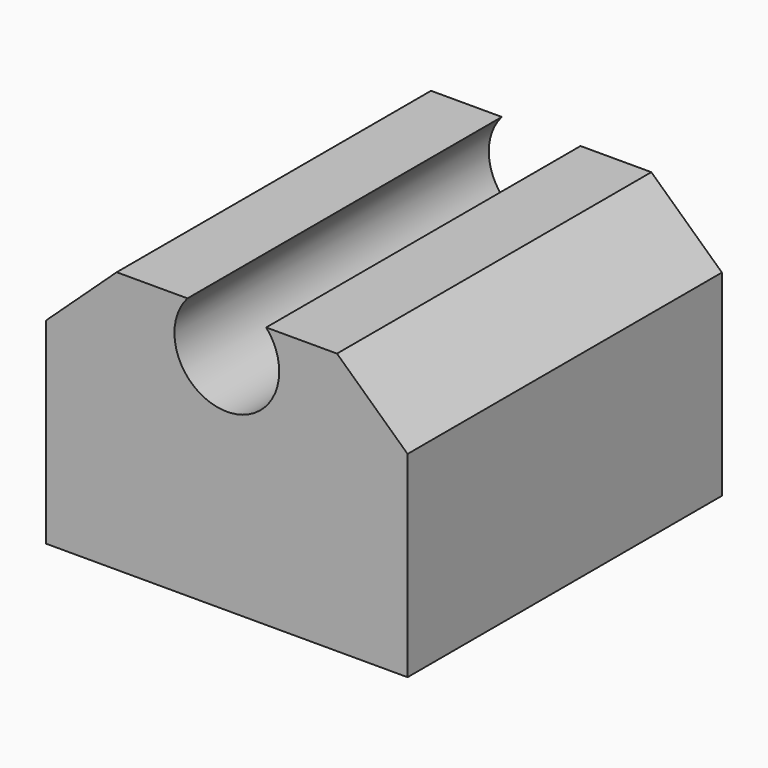
from build123d import *

# Parameters (mm, degrees)
F1_DEPTH = 15


with BuildPart() as f1:
    # F0 (on Front) → F1 (new body)
    with BuildSketch(Plane.XZ):
        with BuildLine():
            Line((-1.501984, 10), (-4.205212, 10))
            Line((-4.205212, 10), (-6.899952, 7.503666))
            Line((-6.899952, 7.503666), (-6.899952, 0))
            Line((-6.899952, 0), (6.899952, 0))
            Line((6.899952, 0), (6.899952, 7.503666))
            Line((6.899952, 7.503666), (4.205212, 10))
            Line((4.205212, 10), (1.501984, 10))
            ThreePointArc((1.501984, 10), (0, 6.679378), (-1.501984, 10))
        make_face()
    extrude(amount=F1_DEPTH)


solid = f1.part
